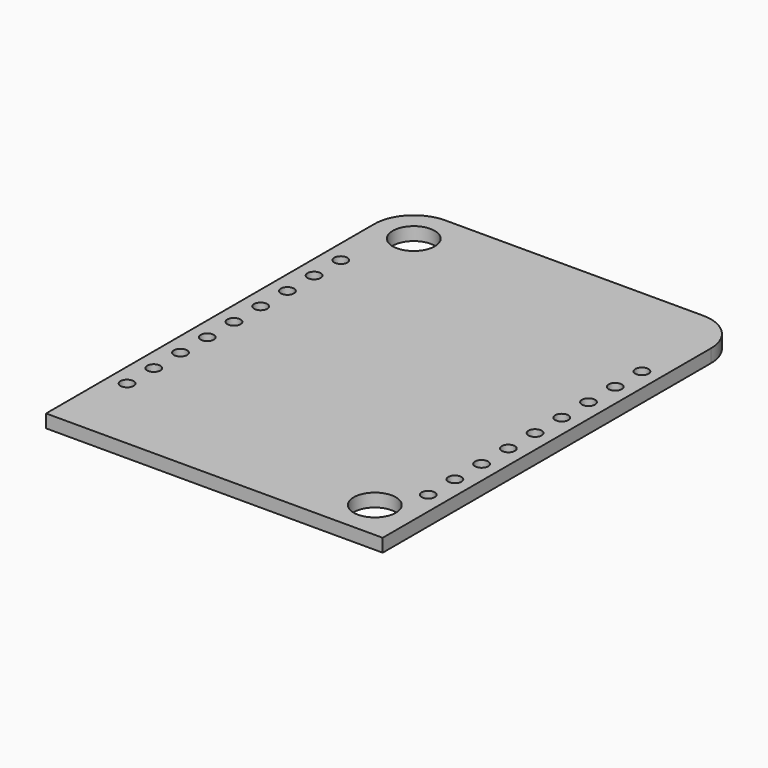
from build123d import *

# Parameters (mm, degrees)
SKETCH111_R                             = 1.6
PAD019_DEPTH                            = 1
SKETCH120_R                             = 0.5
POCKET029_DEPTH                         = 86.464442
POCKET029_DEPTH_BACK                    = 85.464442
SKETCH120_LINEARPATTERN008_2_R          = 0.5
POCKET029_LINEARPATTERN008_2_DEPTH      = 86.464442
POCKET029_LINEARPATTERN008_2_DEPTH_BACK = 85.464442
SKETCH120_LINEARPATTERN008_3_R          = 0.5
POCKET029_LINEARPATTERN008_3_DEPTH      = 86.464442
POCKET029_LINEARPATTERN008_3_DEPTH_BACK = 85.464442
SKETCH120_LINEARPATTERN008_4_R          = 0.5
POCKET029_LINEARPATTERN008_4_DEPTH      = 86.464442
POCKET029_LINEARPATTERN008_4_DEPTH_BACK = 85.464442
SKETCH120_LINEARPATTERN008_5_R          = 0.5
POCKET029_LINEARPATTERN008_5_DEPTH      = 86.464442
POCKET029_LINEARPATTERN008_5_DEPTH_BACK = 85.464442
SKETCH120_LINEARPATTERN008_6_R          = 0.5
POCKET029_LINEARPATTERN008_6_DEPTH      = 86.464442
POCKET029_LINEARPATTERN008_6_DEPTH_BACK = 85.464442
SKETCH120_LINEARPATTERN008_7_R          = 0.5
POCKET029_LINEARPATTERN008_7_DEPTH      = 86.464442
POCKET029_LINEARPATTERN008_7_DEPTH_BACK = 85.464442
SKETCH120_LINEARPATTERN008_8_R          = 0.5
POCKET029_LINEARPATTERN008_8_DEPTH      = 86.464442
POCKET029_LINEARPATTERN008_8_DEPTH_BACK = 85.464442
SKETCH120_LINEARPATTERN008_9_R          = 0.5
POCKET029_LINEARPATTERN008_9_DEPTH      = 86.464442
POCKET029_LINEARPATTERN008_9_DEPTH_BACK = 85.464442


with BuildPart() as part:
    # Sketch111 → Pad019 (new body)
    with BuildSketch(Plane.XY):
        with BuildLine():
            Line((9.8, 17.1), (-9.8, 17.1))
            ThreePointArc((-9.8, 17.1), (-11.92132, 16.22132), (-12.8, 14.1))
            Line((-12.8, 14.1), (-12.8, -17.1))
            Line((-12.8, -17.1), (12.8, -17.1))
            Line((12.8, -17.1), (12.8, 14.1))
            ThreePointArc((12.8, 14.1), (11.92132, 16.22132), (9.8, 17.1))
        make_face()
        with Locations((-9.8, 14.1)):
            Circle(SKETCH111_R, mode=Mode.SUBTRACT)
        with Locations((9.8, -14.1)):
            Circle(SKETCH111_R, mode=Mode.SUBTRACT)
    extrude(amount=-PAD019_DEPTH)

    # Sketch120 → Pocket029 (cut, two sides)
    with BuildSketch(Plane.XY) as pocket029_sk:
        with Locations((11.45, -11.09)):
            Circle(SKETCH120_R)
    pocket029 = extrude(amount=-POCKET029_DEPTH, mode=Mode.SUBTRACT) + extrude(pocket029_sk.sketch, amount=POCKET029_DEPTH_BACK, mode=Mode.SUBTRACT)

    # Sketch120 LinearPattern008 2 → Pocket029 LinearPattern008 2 (cut, two sides)
    with BuildSketch(Plane(origin=(0, 2.54, 0), x_dir=(1, 0, 0), z_dir=(0, 0, 1))) as pocket029_linearpattern008_2_sk:
        with Locations((11.45, -11.09)):
            Circle(SKETCH120_LINEARPATTERN008_2_R)
    pocket029_linearpattern008_2 = extrude(amount=-POCKET029_LINEARPATTERN008_2_DEPTH, mode=Mode.SUBTRACT) + extrude(pocket029_linearpattern008_2_sk.sketch, amount=POCKET029_LINEARPATTERN008_2_DEPTH_BACK, mode=Mode.SUBTRACT)

    # Sketch120 LinearPattern008 3 → Pocket029 LinearPattern008 3 (cut, two sides)
    with BuildSketch(Plane(origin=(0, 5.08, 0), x_dir=(1, 0, 0), z_dir=(0, 0, 1))) as pocket029_linearpattern008_3_sk:
        with Locations((11.45, -11.09)):
            Circle(SKETCH120_LINEARPATTERN008_3_R)
    pocket029_linearpattern008_3 = extrude(amount=-POCKET029_LINEARPATTERN008_3_DEPTH, mode=Mode.SUBTRACT) + extrude(pocket029_linearpattern008_3_sk.sketch, amount=POCKET029_LINEARPATTERN008_3_DEPTH_BACK, mode=Mode.SUBTRACT)

    # Sketch120 LinearPattern008 4 → Pocket029 LinearPattern008 4 (cut, two sides)
    with BuildSketch(Plane(origin=(0, 7.62, 0), x_dir=(1, 0, 0), z_dir=(0, 0, 1))) as pocket029_linearpattern008_4_sk:
        with Locations((11.45, -11.09)):
            Circle(SKETCH120_LINEARPATTERN008_4_R)
    pocket029_linearpattern008_4 = extrude(amount=-POCKET029_LINEARPATTERN008_4_DEPTH, mode=Mode.SUBTRACT) + extrude(pocket029_linearpattern008_4_sk.sketch, amount=POCKET029_LINEARPATTERN008_4_DEPTH_BACK, mode=Mode.SUBTRACT)

    # Sketch120 LinearPattern008 5 → Pocket029 LinearPattern008 5 (cut, two sides)
    with BuildSketch(Plane(origin=(0, 10.16, 0), x_dir=(1, 0, 0), z_dir=(0, 0, 1))) as pocket029_linearpattern008_5_sk:
        with Locations((11.45, -11.09)):
            Circle(SKETCH120_LINEARPATTERN008_5_R)
    pocket029_linearpattern008_5 = extrude(amount=-POCKET029_LINEARPATTERN008_5_DEPTH, mode=Mode.SUBTRACT) + extrude(pocket029_linearpattern008_5_sk.sketch, amount=POCKET029_LINEARPATTERN008_5_DEPTH_BACK, mode=Mode.SUBTRACT)

    # Sketch120 LinearPattern008 6 → Pocket029 LinearPattern008 6 (cut, two sides)
    with BuildSketch(Plane(origin=(0, 12.7, 0), x_dir=(1, 0, 0), z_dir=(0, 0, 1))) as pocket029_linearpattern008_6_sk:
        with Locations((11.45, -11.09)):
            Circle(SKETCH120_LINEARPATTERN008_6_R)
    pocket029_linearpattern008_6 = extrude(amount=-POCKET029_LINEARPATTERN008_6_DEPTH, mode=Mode.SUBTRACT) + extrude(pocket029_linearpattern008_6_sk.sketch, amount=POCKET029_LINEARPATTERN008_6_DEPTH_BACK, mode=Mode.SUBTRACT)

    # Sketch120 LinearPattern008 7 → Pocket029 LinearPattern008 7 (cut, two sides)
    with BuildSketch(Plane(origin=(0, 15.24, 0), x_dir=(1, 0, 0), z_dir=(0, 0, 1))) as pocket029_linearpattern008_7_sk:
        with Locations((11.45, -11.09)):
            Circle(SKETCH120_LINEARPATTERN008_7_R)
    pocket029_linearpattern008_7 = extrude(amount=-POCKET029_LINEARPATTERN008_7_DEPTH, mode=Mode.SUBTRACT) + extrude(pocket029_linearpattern008_7_sk.sketch, amount=POCKET029_LINEARPATTERN008_7_DEPTH_BACK, mode=Mode.SUBTRACT)

    # Sketch120 LinearPattern008 8 → Pocket029 LinearPattern008 8 (cut, two sides)
    with BuildSketch(Plane(origin=(0, 17.78, 0), x_dir=(1, 0, 0), z_dir=(0, 0, 1))) as pocket029_linearpattern008_8_sk:
        with Locations((11.45, -11.09)):
            Circle(SKETCH120_LINEARPATTERN008_8_R)
    pocket029_linearpattern008_8 = extrude(amount=-POCKET029_LINEARPATTERN008_8_DEPTH, mode=Mode.SUBTRACT) + extrude(pocket029_linearpattern008_8_sk.sketch, amount=POCKET029_LINEARPATTERN008_8_DEPTH_BACK, mode=Mode.SUBTRACT)

    # Sketch120 LinearPattern008 9 → Pocket029 LinearPattern008 9 (cut, two sides)
    with BuildSketch(Plane(origin=(0, 20.32, 0), x_dir=(1, 0, 0), z_dir=(0, 0, 1))) as pocket029_linearpattern008_9_sk:
        with Locations((11.45, -11.09)):
            Circle(SKETCH120_LINEARPATTERN008_9_R)
    pocket029_linearpattern008_9 = extrude(amount=-POCKET029_LINEARPATTERN008_9_DEPTH, mode=Mode.SUBTRACT) + extrude(pocket029_linearpattern008_9_sk.sketch, amount=POCKET029_LINEARPATTERN008_9_DEPTH_BACK, mode=Mode.SUBTRACT)

    # Mirrored021: Pocket029, Pocket029 LinearPattern008 2, Pocket029 LinearPattern008 3, Pocket029 LinearPattern008 4, Pocket029 LinearPattern008 5, Pocket029 LinearPattern008 6, Pocket029 LinearPattern008 7, Pocket029 LinearPattern008 8, Pocket029 LinearPattern008 9 across YZ
    add(pocket029.mirror(Plane.YZ), mode=Mode.SUBTRACT)
    add(pocket029_linearpattern008_2.mirror(Plane.YZ), mode=Mode.SUBTRACT)
    add(pocket029_linearpattern008_3.mirror(Plane.YZ), mode=Mode.SUBTRACT)
    add(pocket029_linearpattern008_4.mirror(Plane.YZ), mode=Mode.SUBTRACT)
    add(pocket029_linearpattern008_5.mirror(Plane.YZ), mode=Mode.SUBTRACT)
    add(pocket029_linearpattern008_6.mirror(Plane.YZ), mode=Mode.SUBTRACT)
    add(pocket029_linearpattern008_7.mirror(Plane.YZ), mode=Mode.SUBTRACT)
    add(pocket029_linearpattern008_8.mirror(Plane.YZ), mode=Mode.SUBTRACT)
    add(pocket029_linearpattern008_9.mirror(Plane.YZ), mode=Mode.SUBTRACT)


solid = part.part
